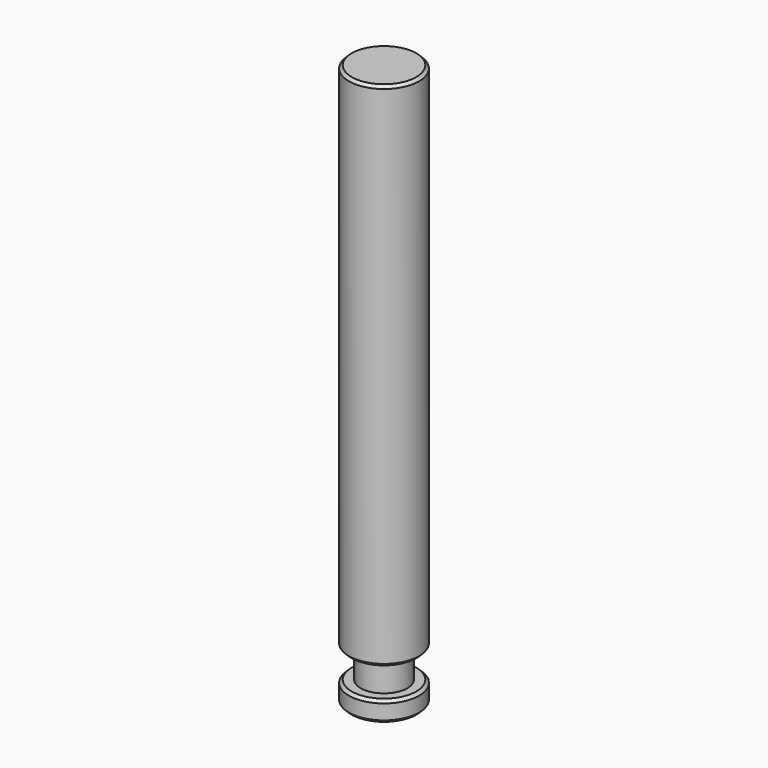
from build123d import *

# Parameters (mm, degrees)
F2_SIZE = 0.762


with BuildPart() as f1:
    # F0 (on Right) → F1 (revolve)
    with BuildSketch(Plane.YZ):
        Polygon((0, 152.4), (0, 0), (9.525, 0), (9.525, 5.5626), (6.35, 5.5626), (6.35, 13.5001), (9.525, 13.5001), (9.525, 152.4), align=None)
    revolve(axis=Axis((0, 0, 76.2), (0, 0, -1)))

    # F2
    f2_edges = [f1.edges().sort_by_distance(p)[0] for p in [
        (0, -9.525, 152.4),
        (0, -9.525, 5.5626),
        (0, -9.525, 13.5001),
        (0, -9.525, 0),
    ]]
    chamfer(f2_edges, length=F2_SIZE)


solid = f1.part
